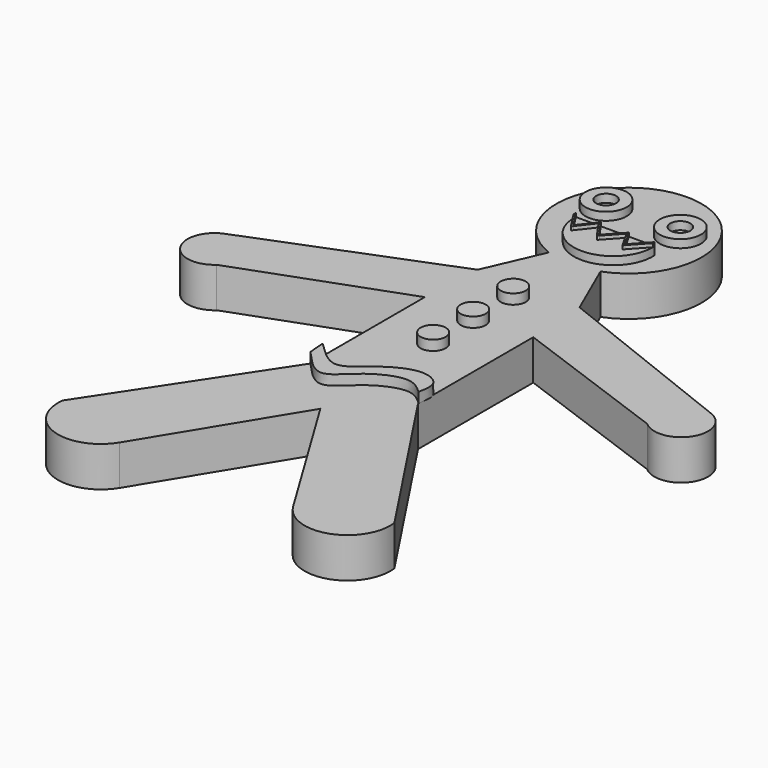
from build123d import *

# Parameters (mm, degrees)
F1_DEPTH = 5.08
F2_R     = 2.6137383635
F2_R_2   = 1.27
F3_DEPTH = 1.016
F5_DEPTH = 0.4572
F6_R     = 1.5849178859
F6_R_2   = 1.5875
F7_DEPTH = 1.27
F9_DEPTH = 1.27


with BuildPart() as f1:
    # F0 (on Top) → F1 (new body)
    with BuildSketch(Plane.XY):
        with BuildLine():
            Line((-3.2727682094, 26.3807782884), (-6.4659603156, 19.0687214415))
            Line((-6.4659603156, 19.0687214415), (-30.863808468, 9.4360690564))
            ThreePointArc((-30.863808468, 9.4360690564), (-32.5086762666, 4.4664752799), (-27.325283736, 3.7351106293))
            Line((-27.325283736, 3.7351106293), (-6.8804663606, 11.2053323537))
            Line((-6.8804663606, 11.2053323537), (-6.8804663606, -7.0770513266))
            Line((-6.8804663606, -7.0770513266), (-21.0345704108, -28.5047926009))
            ThreePointArc((-21.0345704108, -28.5047926009), (-17.4572264743, -34.3414996844), (-11.008746922, -32.0433154702))
            Line((-11.008746922, -32.0433154702), (0, -13.9575190842))
            Line((0, -13.9575190842), (11.008746922, -32.0433154702))
            ThreePointArc((11.008746922, -32.0433154702), (17.4572264743, -34.3414996844), (21.0345704108, -28.5047926009))
            Line((21.0345704108, -28.5047926009), (6.8804663606, -7.0770513266))
            Line((6.8804663606, -7.0770513266), (6.8804663606, 11.2053323537))
            Line((6.8804663606, 11.2053323537), (27.325283736, 3.7351106293))
            ThreePointArc((27.325283736, 3.7351106293), (32.5086762666, 4.4664752799), (30.863808468, 9.4360690564))
            Line((30.863808468, 9.4360690564), (6.4659603156, 19.0687214415))
            Line((6.4659603156, 19.0687214415), (3.2727682094, 26.3807782884))
            ThreePointArc((3.2727682094, 26.3807782884), (0, 44.2043436195), (-3.2727682094, 26.3807782884))
        make_face()
    extrude(amount=F1_DEPTH)

    # F2 (on face) → F3 (join)
    with BuildSketch(Plane.XY.offset(5.08)):
        with Locations((-4.7121047974, 37.2473150492)):
            Circle(F2_R)
        with Locations((-4.7121047974, 37.2473150492)):
            Circle(F2_R_2, mode=Mode.SUBTRACT)
        with Locations((4.7121047974, 37.2473150492)):
            Circle(F2_R)
        with Locations((4.7121047974, 37.2473150492)):
            Circle(F2_R_2, mode=Mode.SUBTRACT)
        with BuildLine():
            Line((-3.2727682094, 30.2372745808), (-4.7121047974, 32.4515290558))
            ThreePointArc((-4.7121047974, 32.4515290558), (0.2937612268, 27.1153177061), (5.2996272509, 32.4515290558))
            Line((5.2996272509, 32.4515290558), (3.2727682094, 30.2372745808))
            Line((3.2727682094, 30.2372745808), (2.0341726185, 32.4515290558))
            Line((2.0341726185, 32.4515290558), (0, 30.2372745808))
            Line((0, 30.2372745808), (-1.5411652881, 32.4515290558))
            Line((-1.5411652881, 32.4515290558), (-3.2727682094, 30.2372745808))
        make_face()
        Polygon((-1.5411652881, 32.4515290558), (-4.7121047974, 32.4515290558), (-3.2727682094, 30.2372745808), align=None)
        Polygon((3.2727682094, 30.2372745808), (5.2996272509, 32.4515290558), (2.0341726185, 32.4515290558), align=None)
        Polygon((2.0341726185, 32.4515290558), (-1.5411652881, 32.4515290558), (0, 30.2372745808), align=None)
    extrude(amount=F3_DEPTH)

    # F4 (on face) → F5 (join)
    with BuildSketch(Plane.XY.offset(6.096)):
        with BuildLine():
            Line((-3.2727682094, 30.2372745808), (-4.7121047974, 32.4515290558))
            ThreePointArc((-4.7121047974, 32.4515290558), (-4.7203324358, 32.2729584869), (-4.7221920847, 32.0942081475))
            Line((-4.7221920847, 32.0942081475), (-3.4431374496, 30.126529098))
            Line((-3.4431374496, 30.126529098), (-3.2880254188, 29.8879070055))
            Line((-3.2880254188, 29.8879070055), (-3.1127018776, 30.1120986668))
            Line((-3.1127018776, 30.1120986668), (-1.5506819831, 32.1095020547))
            Line((-1.5506819831, 32.1095020547), (-0.1667791776, 30.121192946))
            Line((-0.1667791776, 30.121192946), (-0.0219153894, 29.9130612851))
            Line((-0.0219153894, 29.9130612851), (0.1496401921, 30.0998043917))
            Line((0.1496401921, 30.0998043917), (1.9938853204, 32.1073174174))
            Line((1.9938853204, 32.1073174174), (3.0954276532, 30.138074948))
            Line((3.0954276532, 30.138074948), (3.2517947624, 29.9134160007))
            Line((3.2517947624, 29.9134160007), (3.4226548069, 30.1000730943))
            Line((3.4226548069, 30.1000730943), (5.3097613024, 32.1616540513))
            ThreePointArc((5.3097613024, 32.1616540513), (5.306789943, 32.3066648182), (5.2996272509, 32.4515290558))
            Line((5.2996272509, 32.4515290558), (3.2727682094, 30.2372745808))
            Line((3.2727682094, 30.2372745808), (2.13859977, 32.2648431922))
            Line((2.13859977, 32.2648431922), (2.0341726185, 32.4515290558))
            Line((2.0341726185, 32.4515290558), (1.8894581688, 32.2940032811))
            Line((1.8894581688, 32.2940032811), (0, 30.2372745808))
            Line((0, 30.2372745808), (-1.4196918326, 32.2770032315))
            Line((-1.4196918326, 32.2770032315), (-1.5411652881, 32.4515290558))
            Line((-1.5411652881, 32.4515290558), (-1.6721554386, 32.2840278791))
            Line((-1.6721554386, 32.2840278791), (-3.2727682094, 30.2372745808))
        make_face()
    extrude(amount=F5_DEPTH)

    # F6 (on face) → F7 (join)
    with BuildSketch(Plane.XY.offset(5.08)):
        with Locations((0, 16.6316951297)):
            Circle(F6_R)
        with Locations((0, 10.2816951297)):
            Circle(F6_R_2)
        with Locations((0, 3.9316951297)):
            Circle(F6_R_2)
    extrude(amount=F7_DEPTH)

    # F8 (on face) → F9 (join)
    with BuildSketch(Plane.XY.offset(5.08)):
        with BuildLine():
            add(Edge.make_bspline(
                [(-7.0363054983, -4.8071318306), (-6.9812030221, -5.5234641768), (-6.9261005459, -6.239796523), (-6.8709980696, -6.9561288692)],
                knots=[0, 0, 0, 0, 2.1553456377, 2.1553456377, 2.1553456377, 2.1553456377], degree=3))
            add(Edge.make_bspline(
                [(-6.8709980696, -6.9561288692), (-5.6130342711, -8.3738225884), (-3.1848892901, -11.1102812153), (-0.243495057, -7.0612015798), (4.5821148023, -4.8991787577), (6.1734744422, -6.3428325856), (6.8495194428, -6.9561288692)],
                knots=[0, 0, 0, 0, 0.2686113424, 0.5184785791, 0.7954389812, 1, 1, 1, 1], degree=3))
            add(Edge.make_bspline(
                [(-7.0363054983, -4.8071318306), (-5.7248109737, -6.1236047459), (-3.2262965612, -8.6316034379), (-0.1133011688, -5.1968632917), (4.3194928458, -2.8270018136), (7.3601699927, -4.4068743135), (7.0165421861, -6.1223228754), (6.8495194428, -6.9561288692)],
                knots=[0, 0, 0, 0, 0.2276234559, 0.4336430496, 0.668963168, 0.8390971896, 1, 1, 1, 1], degree=3))
        make_face()
    extrude(amount=F9_DEPTH)


solid = f1.part
